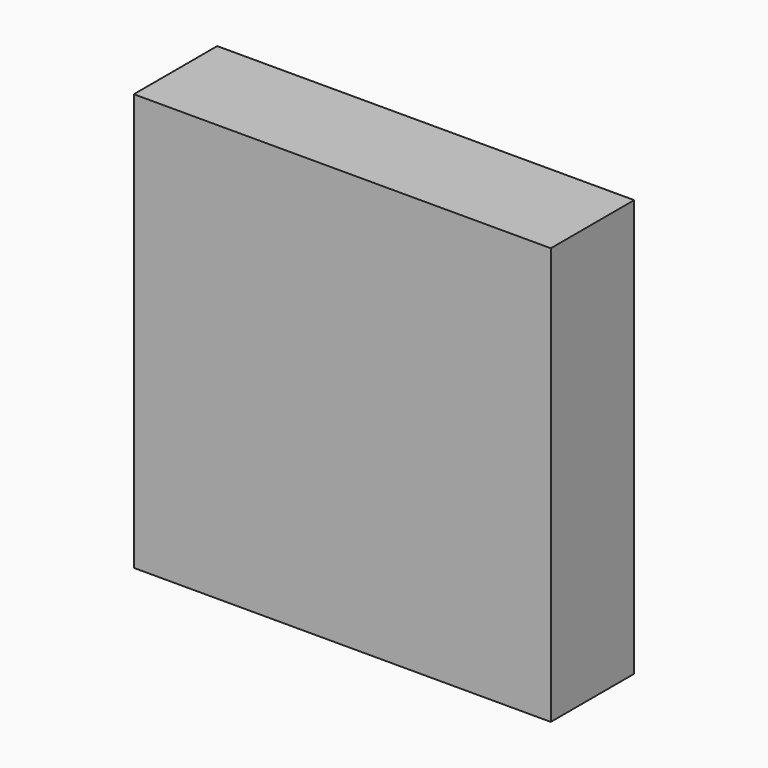
from build123d import *

# Parameters (mm, degrees)
F0_W     = 80
F0_H     = 80
F1_DEPTH = 20
F2_R     = 4
F3_DEPTH = 15
F4_DEPTH = 15
F5_DEPTH = 10


with BuildPart() as f1:
    # F0 (on Front) → F1 (new body)
    with BuildSketch(Plane.XZ):
        with Locations((40, -40)):
            Rectangle(F0_W, F0_H)
    extrude(amount=F1_DEPTH)

    # F2 (on face) → F3 (cut)
    with BuildSketch(Plane(origin=(0, 0, 0), x_dir=(-1, 0, 0), z_dir=(0, 1, 0))):
        with Locations((-65, -72)):
            Circle(F2_R)
        with Locations((-25, -72)):
            Circle(F2_R)
    extrude(amount=-F3_DEPTH, mode=Mode.SUBTRACT)

    # F2 (on face) → F4 (cut)
    with BuildSketch(Plane(origin=(0, 0, 0), x_dir=(-1, 0, 0), z_dir=(0, 1, 0))):
        with BuildLine():
            ThreePointArc((-65, -48), (-63.242641, -52.242641), (-59, -54))
            Line((-59, -54), (-31, -54))
            ThreePointArc((-31, -54), (-26.757359, -52.242641), (-25, -48))
            Line((-25, -48), (-25, -20))
            ThreePointArc((-25, -20), (-26.757359, -15.757359), (-31, -14))
            Line((-31, -14), (-59, -14))
            ThreePointArc((-59, -14), (-63.242641, -15.757359), (-65, -20))
            Line((-65, -20), (-65, -48))
        make_face()
    extrude(amount=-F4_DEPTH, mode=Mode.SUBTRACT)

    # F2 (on face) → F5 (cut)
    with BuildSketch(Plane(origin=(0, 0, 0), x_dir=(-1, 0, 0), z_dir=(0, 1, 0))):
        with BuildLine():
            Line((-75, -14), (-75, -54))
            ThreePointArc((-75, -54), (-72.071068, -61.071068), (-65, -64))
            Line((-65, -64), (-25, -64))
            ThreePointArc((-25, -64), (-17.928932, -61.071068), (-15, -54))
            Line((-15, -54), (-15, -14))
            ThreePointArc((-15, -14), (-17.928932, -6.928932), (-25, -4))
            Line((-25, -4), (-65, -4))
            ThreePointArc((-65, -4), (-72.071068, -6.928932), (-75, -14))
        make_face()
        with BuildLine():
            Line((-31, -54), (-59, -54))
            ThreePointArc((-59, -54), (-63.242641, -52.242641), (-65, -48))
            Line((-65, -48), (-65, -20))
            ThreePointArc((-65, -20), (-63.242641, -15.757359), (-59, -14))
            Line((-59, -14), (-31, -14))
            ThreePointArc((-31, -14), (-26.757359, -15.757359), (-25, -20))
            Line((-25, -20), (-25, -48))
            ThreePointArc((-25, -48), (-26.757359, -52.242641), (-31, -54))
        make_face(mode=Mode.SUBTRACT)
    extrude(amount=-F5_DEPTH, mode=Mode.SUBTRACT)


solid = f1.part
